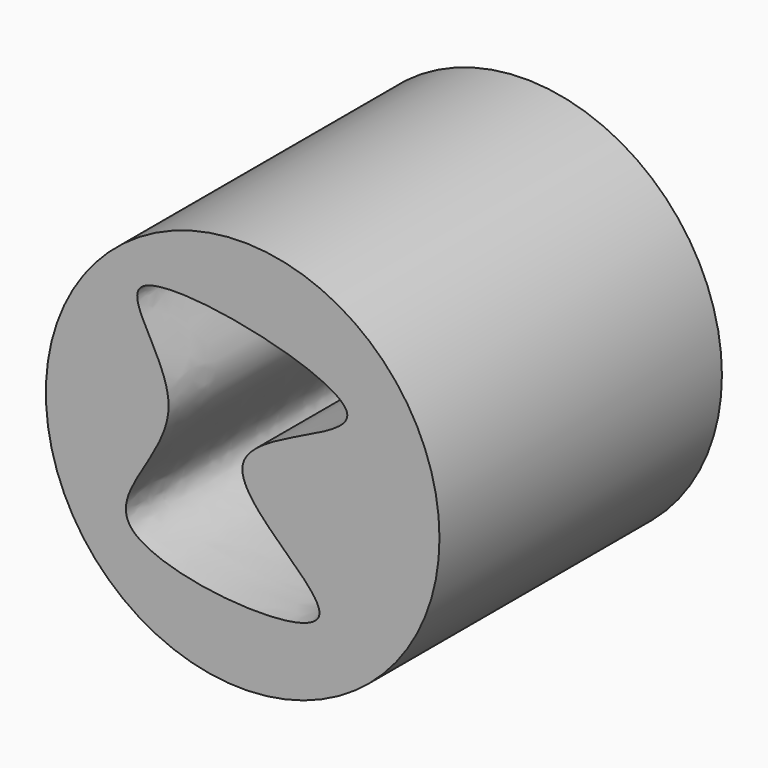
from build123d import *

# Parameters (mm, degrees)
F0_R     = 59.4997112461
F1_DEPTH = 106.7321076989
F3_DEPTH = 106.7331076989


with BuildPart() as f1:
    # F0 (on Front) → F1 (new body)
    with BuildSketch(Plane.XZ):
        Circle(F0_R)
    extrude(amount=F1_DEPTH)

    # F2 (on Front) → F3 (cut, through all)
    with BuildSketch(Plane.XZ):
        with BuildLine():
            add(Edge.make_bspline(
                [(23.0512022972, -32.7107161283), (25.5600314852, -25.6869633441), (-29.0574008088, 4.4044471243), (71.3773365717, 24.429270359), (-57.149534956, 51.6552737085), (-6.394358987, 6.6912014981), (-62.5941554206, -35.4750705547), (20.0542502389, -41.1010244301), (23.0512022972, -32.7107161283)],
                knots=[0, 0, 0, 0, 0.1589750388, 0.3172165929, 0.5173741359, 0.6560747525, 0.8100944569, 1, 1, 1, 1], degree=3))
        make_face()
    extrude(amount=F3_DEPTH, mode=Mode.SUBTRACT)


solid = f1.part
